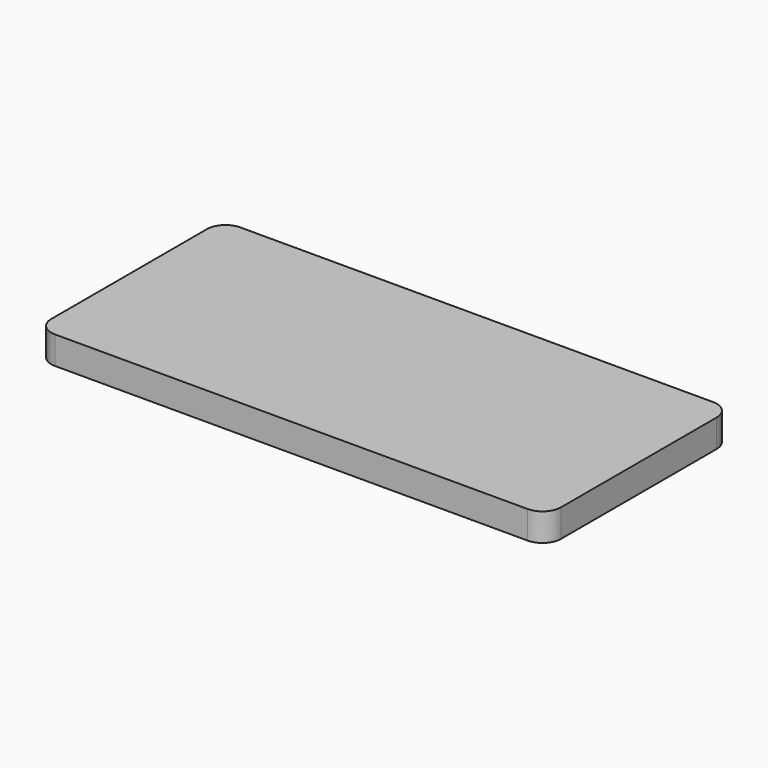
from build123d import *

# Parameters (mm, degrees)
BOX001_W     = 20
BOX001_H     = 14
BOX001_DEPTH = 2
BOX_W        = 55
BOX_H        = 25
BOX_DEPTH    = 3
FILLET_R     = 2


with BuildPart() as cube001:
    # Box001 → Box001 (new body)
    with BuildSketch(Plane(origin=(6, -8, -3), x_dir=(1, 0, 0), z_dir=(0, 0, 1))):
        with Locations((10, 7)):
            Rectangle(BOX001_W, BOX001_H)
    extrude(amount=BOX001_DEPTH)


with BuildPart() as cut:
    # Box → Box (new body)
    with BuildSketch(Plane(origin=(-11, -13.5, -3), x_dir=(1, 0, 0), z_dir=(0, 0, 1))):
        with Locations((27.5, 12.5)):
            Rectangle(BOX_W, BOX_H)
    extrude(amount=BOX_DEPTH)

    # Fillet
    fillet_edges = [cut.edges().sort_by_distance(p)[0] for p in [
        (-11, -13.5, -1.5),
        (-11, 11.5, -1.5),
        (44, -13.5, -1.5),
        (44, 11.5, -1.5),
    ]]
    fillet(fillet_edges, radius=FILLET_R)

    # Cut: cut Cube001
    add(cube001.part, mode=Mode.SUBTRACT)


solid = cut.part
